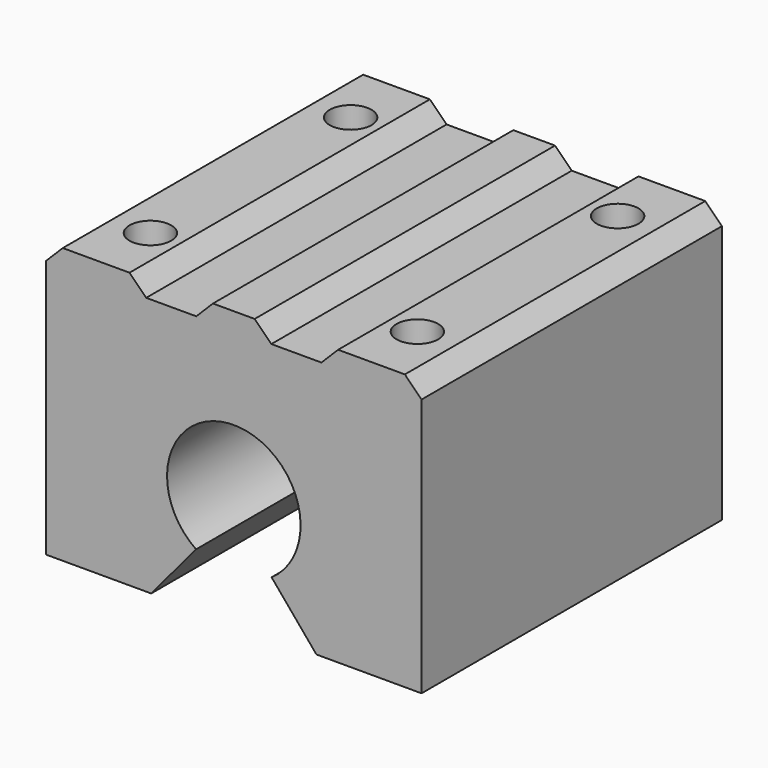
from build123d import *

# Parameters (mm, degrees)
F1_DEPTH = 45
F3_SIZE  = 2
F2_R     = 2.5
F4_DEPTH = 12


with BuildPart() as f1:
    # F0 (on Front) → F1 (new body)
    with BuildSketch(Plane.XZ):
        with BuildLine():
            ThreePointArc((-4.526972, -6.595947), (0, 8), (4.526972, -6.595947))
            Line((4.526972, -6.595947), (9.900611, -13))
            Line((9.900611, -13), (22.5, -13))
            Line((22.5, -13), (22.5, 20))
            Line((22.5, 20), (12.5, 20))
            Line((12.5, 20), (10.5, 18))
            Line((10.5, 18), (4.5, 18))
            Line((4.5, 18), (2.5, 20))
            Line((2.5, 20), (0, 20))
            Line((0, 20), (-2.5, 20))
            Line((-2.5, 20), (-4.5, 18))
            Line((-4.5, 18), (-10.5, 18))
            Line((-10.5, 18), (-12.5, 20))
            Line((-12.5, 20), (-22.5, 20))
            Line((-22.5, 20), (-22.5, -13))
            Line((-22.5, -13), (-9.900611, -13))
            Line((-9.900611, -13), (-4.526972, -6.595947))
        make_face()
    extrude(amount=-F1_DEPTH)

    # F3
    f3_edges = [f1.edges().sort_by_distance(p)[0] for p in [
        (22.5, 22.5, 20),
        (-22.5, 22.5, 20),
    ]]
    chamfer(f3_edges, length=F3_SIZE)

    # F2 (on face) → F4 (cut)
    with BuildSketch(Plane.XY.offset(20)):
        with Locations((-16, 37.5)):
            Circle(F2_R)
        with Locations((-16, 7.5)):
            Circle(F2_R)
        with Locations((16, 37.5)):
            Circle(F2_R)
        with Locations((16, 7.5)):
            Circle(F2_R)
    extrude(amount=-F4_DEPTH, mode=Mode.SUBTRACT)


solid = f1.part
